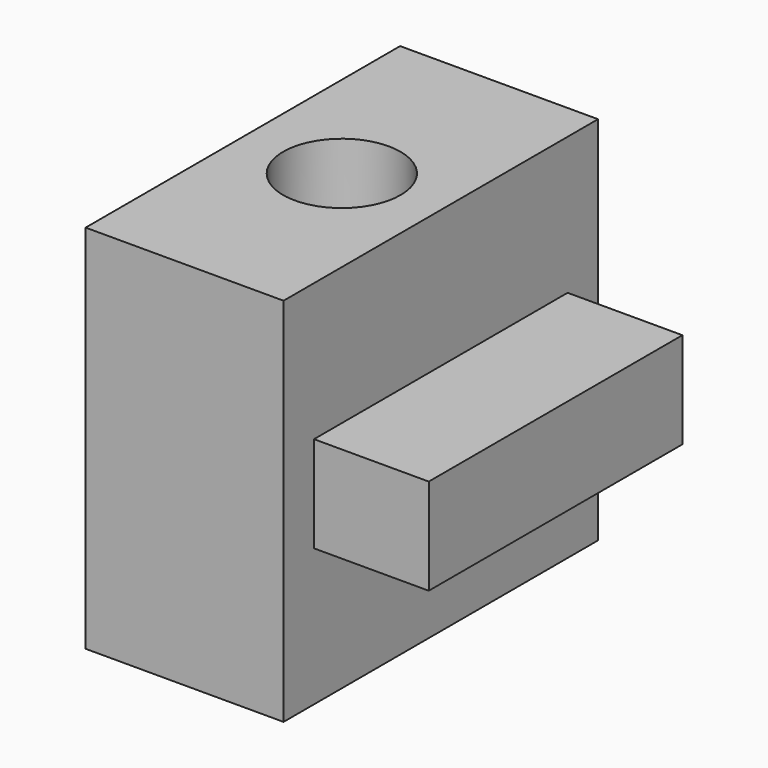
from build123d import *

# Parameters (mm, degrees)
F1_W     = 135.58194
F1_H     = 269.272744
F1_R     = 40.204249
F2_DEPTH = 254
F3_W     = 217.152894
F3_H     = 65.837988
F4_DEPTH = 214.207878


with BuildPart() as f2:
    # F1 (on face) → F2 (new body)
    with BuildSketch(Plane.XY):
        Rectangle(F1_W, F1_H)
        Circle(F1_R, mode=Mode.SUBTRACT)
    extrude(amount=F2_DEPTH)

    # F3 (on face) → F4 (join)
    with BuildSketch(Plane(origin=(-67.79097, 0, 0), x_dir=(0, -1, 0), z_dir=(-1, 0, 0))):
        with Locations((0, 127)):
            Rectangle(F3_W, F3_H)
    extrude(amount=-F4_DEPTH)


solid = f2.part
